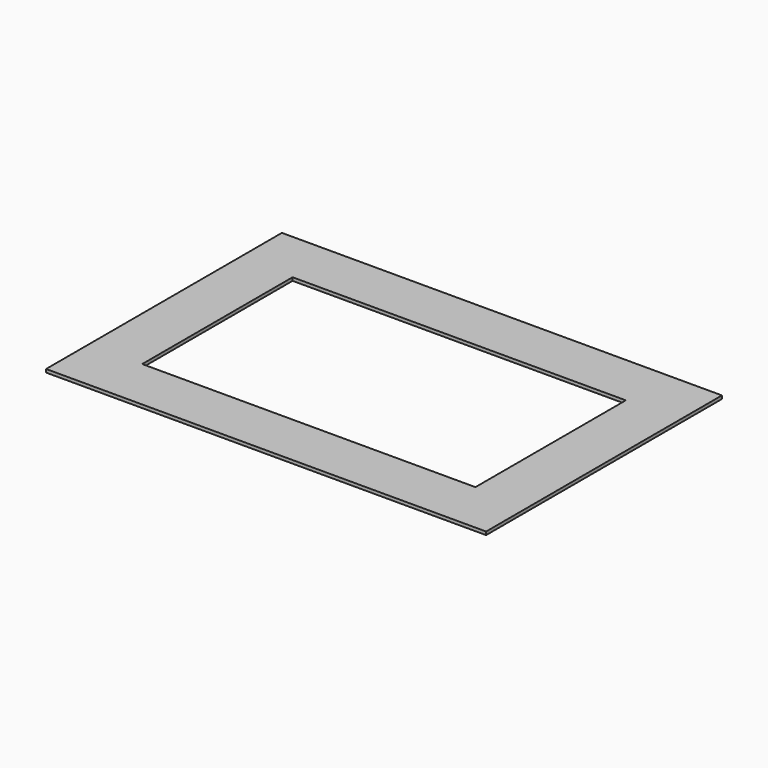
from build123d import *

# Parameters (mm, degrees)
F0_W       = 206
F0_H       = 138
F0_W_2     = 156
F0_H_2     = 88
F1_DEPTH   = 1.5
F2_W       = 10
F2_H       = 10
F2_R       = 1.55
F3_DEPTH   = 6
F4_DEPTH   = 9
F5_SIZE2   = 2
F5_SIZE    = 1
F5_2_SIZE2 = 2
F5_2_SIZE  = 1
F5_3_SIZE2 = 2
F5_3_SIZE  = 1
F5_4_SIZE2 = 2
F5_4_SIZE  = 1


with BuildPart() as f1:
    # F0 (on Top) → F1 (new body)
    with BuildSketch(Plane.XY):
        Rectangle(F0_W, F0_H)
        Rectangle(F0_W_2, F0_H_2, mode=Mode.SUBTRACT)
    extrude(amount=F1_DEPTH)

    # F2 (on face) → F3 (join)
    with BuildSketch(Plane(origin=(0, 0, 0), x_dir=(1, 0, 0), z_dir=(0, 0, -1))):
        with Locations((-76, 54)):
            Rectangle(F2_W, F2_H)
        with Locations((-76, 54)):
            Circle(F2_R, mode=Mode.SUBTRACT)
        with Locations((80.9, 54)):
            Rectangle(F2_W, F2_H)
        with Locations((80.9, 54)):
            Circle(F2_R, mode=Mode.SUBTRACT)
        with Locations((80.9, -60.96)):
            Rectangle(F2_W, F2_H)
        with Locations((80.9, -60.96)):
            Circle(F2_R, mode=Mode.SUBTRACT)
        with Locations((-76, -60.96)):
            Rectangle(F2_W, F2_H)
        with Locations((-76, -60.96)):
            Circle(F2_R, mode=Mode.SUBTRACT)
        with Locations((-76, 54)):
            Circle(F2_R)
        with Locations((-76, -60.96)):
            Circle(F2_R)
        with Locations((80.9, -60.96)):
            Circle(F2_R)
        with Locations((80.9, 54)):
            Circle(F2_R)
    extrude(amount=F3_DEPTH)

    # F2 (on face) → F4 (join)
    with BuildSketch(Plane(origin=(0, 0, 0), x_dir=(1, 0, 0), z_dir=(0, 0, -1))):
        with Locations((-76, 54)):
            Circle(F2_R)
        with Locations((-76, -60.96)):
            Circle(F2_R)
        with Locations((80.9, -60.96)):
            Circle(F2_R)
        with Locations((80.9, 54)):
            Circle(F2_R)
    extrude(amount=F4_DEPTH)

    # F5
    f5_edges = [f1.edges().sort_by_distance(p)[0] for p in [
        (-77.55, -54, -9),
    ]]
    f5_side = f1.faces().sort_by_distance((-76, -54, -9))[0]
    chamfer(f5_edges, length=F5_SIZE, length2=F5_SIZE2, reference=f5_side)

    # F5#2
    f5_2_edges = [f1.edges().sort_by_distance(p)[0] for p in [
        (-77.55, 60.96, -9),
    ]]
    f5_2_side = f1.faces().sort_by_distance((-76, 60.96, -9))[0]
    chamfer(f5_2_edges, length=F5_2_SIZE, length2=F5_2_SIZE2, reference=f5_2_side)

    # F5#3
    f5_3_edges = [f1.edges().sort_by_distance(p)[0] for p in [
        (79.35, -54, -9),
    ]]
    f5_3_side = f1.faces().sort_by_distance((80.9, -54, -9))[0]
    chamfer(f5_3_edges, length=F5_3_SIZE, length2=F5_3_SIZE2, reference=f5_3_side)

    # F5#4
    f5_4_edges = [f1.edges().sort_by_distance(p)[0] for p in [
        (79.35, 60.96, -9),
    ]]
    f5_4_side = f1.faces().sort_by_distance((80.9, 60.96, -9))[0]
    chamfer(f5_4_edges, length=F5_4_SIZE, length2=F5_4_SIZE2, reference=f5_4_side)


solid = f1.part
